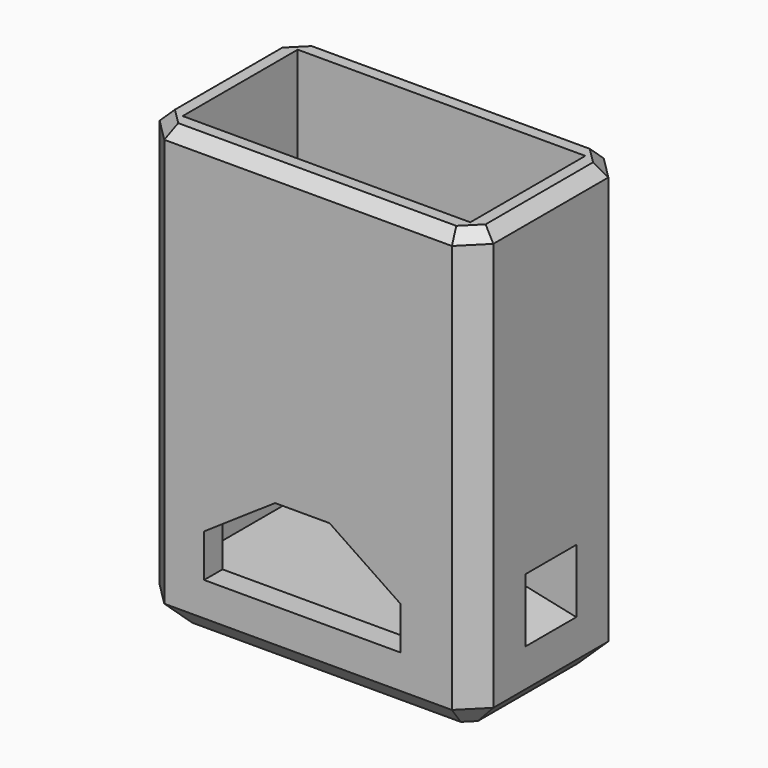
from build123d import *

# Parameters (mm, degrees)
F0_W      = 29
F0_H      = 16.5
F1_DEPTH  = 38.5
F2_T      = -2
F3_DEPTH  = 2.25
F4_SIZE   = 2
F5_SIZE   = 2
F6_SIZE   = 1
F8_DEPTH  = 16.501
F9_W      = 7.54
F9_H      = 7.25
F9_R      = 1.1
F10_DEPTH = 6.35
F13_W     = 5.538
F13_H     = 4.583
F11_W     = 5.538
F11_H     = 5.533


with BuildPart() as f1:
    # F0 (on Top) → F1 (new body)
    with BuildSketch(Plane.XY):
        with Locations((14.5, 8.25)):
            Rectangle(F0_W, F0_H)
    extrude(amount=F1_DEPTH)

    # F2
    f2_openings = [f1.faces().sort_by_distance(p)[0] for p in [
        (14.5, 8.25, 38.5),
    ]]
    offset(amount=F2_T, openings=f2_openings)

    # F3 (add): a face of the model
    f3_faces = [f1.faces().sort_by_distance(p)[0] for p in [
        (14.5, 8.25, 2),
    ]]
    extrude(f3_faces, amount=F3_DEPTH)

    # F4
    f4_edges = [f1.edges().sort_by_distance(p)[0] for p in [
        (29, 0, 19.25),
        (29, 16.5, 19.25),
        (0, 0, 19.25),
        (0, 16.5, 19.25),
    ]]
    chamfer(f4_edges, length=F4_SIZE)

    # F5
    f5_edges = [f1.edges().sort_by_distance(p)[0] for p in [
        (0, 8.25, 0),
        (1, 15.5, 0),
        (1, 1, 0),
        (14.5, 16.5, 0),
        (14.5, 0, 0),
        (28, 15.5, 0),
        (28, 1, 0),
        (29, 8.25, 0),
    ]]
    chamfer(f5_edges, length=F5_SIZE)

    # F6
    f6_edges = [f1.edges().sort_by_distance(p)[0] for p in [
        (29, 8.25, 38.5),
        (28, 1, 38.5),
        (14.5, 0, 38.5),
        (1, 1, 38.5),
        (0, 8.25, 38.5),
        (1, 15.5, 38.5),
        (14.5, 16.5, 38.5),
        (28, 15.5, 38.5),
    ]]
    chamfer(f6_edges, length=F6_SIZE)

    # F7 (on face) → F8 (cut, through all)
    with BuildSketch(Plane(origin=(0, 16.5, 0), x_dir=(-1, 0, 0), z_dir=(0, 1, 0))):
        Polygon((-22.536, 8.664), (-22.536, 4.94), (-5.464, 4.94), (-5.464, 8.664), (-11.635, 12.834), (-16.365, 12.834), align=None)
    extrude(amount=-F8_DEPTH, mode=Mode.SUBTRACT)

    # F9 (on face) → F10 (join)
    with BuildSketch(Plane.YZ.offset(29)):
        with Locations((8.25, 7.875)):
            Rectangle(F9_W, F9_H)
        with Locations((8.25, 9)):
            Circle(F9_R, mode=Mode.SUBTRACT)
    extrude(amount=-F10_DEPTH)

    # F13 (on offset) → F14 section 0
    with BuildSketch(Plane.YZ.offset(24.55)):
        with Locations((8.25, 8.5135)):
            Rectangle(F13_W, F13_H)
    # F11 (on face) → F14 section 1
    with BuildSketch(Plane.YZ.offset(29)):
        with Locations((8.25, 8.0385)):
            Rectangle(F11_W, F11_H)
    loft(mode=Mode.SUBTRACT)


solid = f1.part
